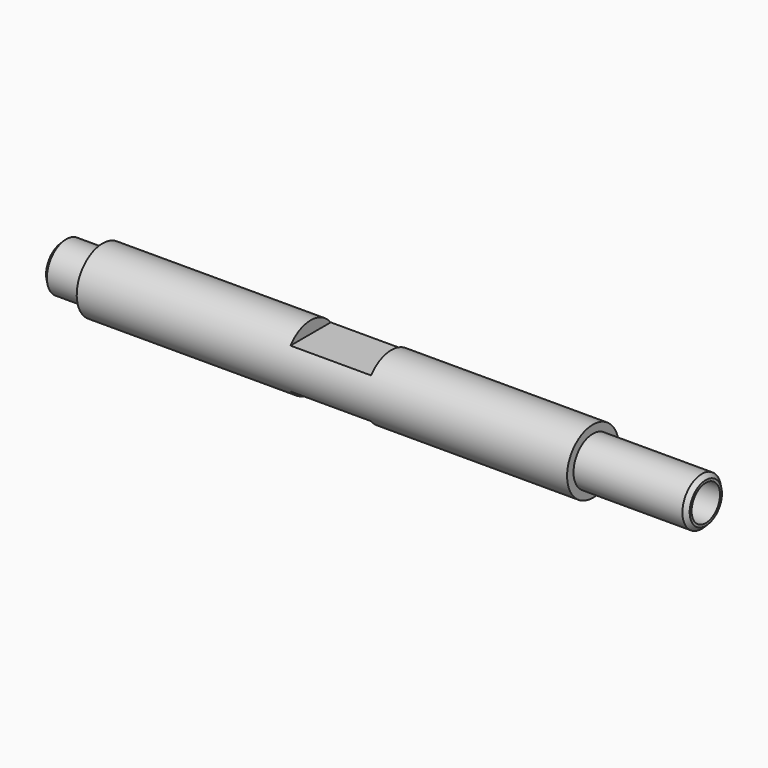
from build123d import *

# Parameters (mm, degrees)
F0_W     = 5
F0_H     = 3
F0_W_2   = 14
F3_SIZE  = 0.5
F4_D     = 4.4
F4_DEPTH = 14
F4_TIP   = 1.3218933619
F5_SIZE  = 0.5
F7_D     = 4.4
F7_DEPTH = 14
F7_TIP   = 1.3218933619
F8_W     = 10
F8_H     = 1.5
F9_DEPTH = 10


with BuildPart() as f1:
    # F0 (on Front) → F1 (revolve)
    with BuildSketch(Plane.XZ):
        Polygon((-30.4, 3), (-30.4, 0), (30.4, 0), (30.4, 3), (30.4, 4), (5, 4), (-5, 4), (-30.4, 4), align=None)
        with Locations((-32.9, 1.5)):
            Rectangle(F0_W, F0_H)
        with Locations((37.4, 1.5)):
            Rectangle(F0_W_2, F0_H)
    revolve(axis=Axis((7.3750944167, 0, 0), (1, 0, 0)))

    # F3
    f3_edges = [f1.edges().sort_by_distance(p)[0] for p in [
        (44.4, 0, -3),
    ]]
    chamfer(f3_edges, length=F3_SIZE)

    # F4
    with Locations(Plane.YZ.offset(44.4)):
        with Locations((0, 0)):
            Hole(F4_D / 2, depth=F4_DEPTH)
            with Locations((0, 0, -(F4_DEPTH + F4_TIP / 2))):  # 118° drill point
                Cone(0, F4_D / 2, F4_TIP, mode=Mode.SUBTRACT)

    # F5
    f5_edges = [f1.edges().sort_by_distance(p)[0] for p in [
        (-35.4, 0, -3),
    ]]
    chamfer(f5_edges, length=F5_SIZE)

    # F7
    with Locations(Plane(origin=(-35.4, 0, 0), x_dir=(0, -1, 0), z_dir=(-1, 0, 0))):
        with Locations((0, 0)):
            Hole(F7_D / 2, depth=F7_DEPTH)
            with Locations((0, 0, -(F7_DEPTH + F7_TIP / 2))):  # 118° drill point
                Cone(0, F7_D / 2, F7_TIP, mode=Mode.SUBTRACT)

    # F8 (on Front) → F9 (cut, symmetric)
    with BuildSketch(Plane.XZ):
        with Locations((0.4, -3.25)):
            Rectangle(F8_W, F8_H)
        with Locations((0.4, 3.25)):
            Rectangle(F8_W, F8_H)
    extrude(amount=F9_DEPTH, both=True, mode=Mode.SUBTRACT)


solid = f1.part
